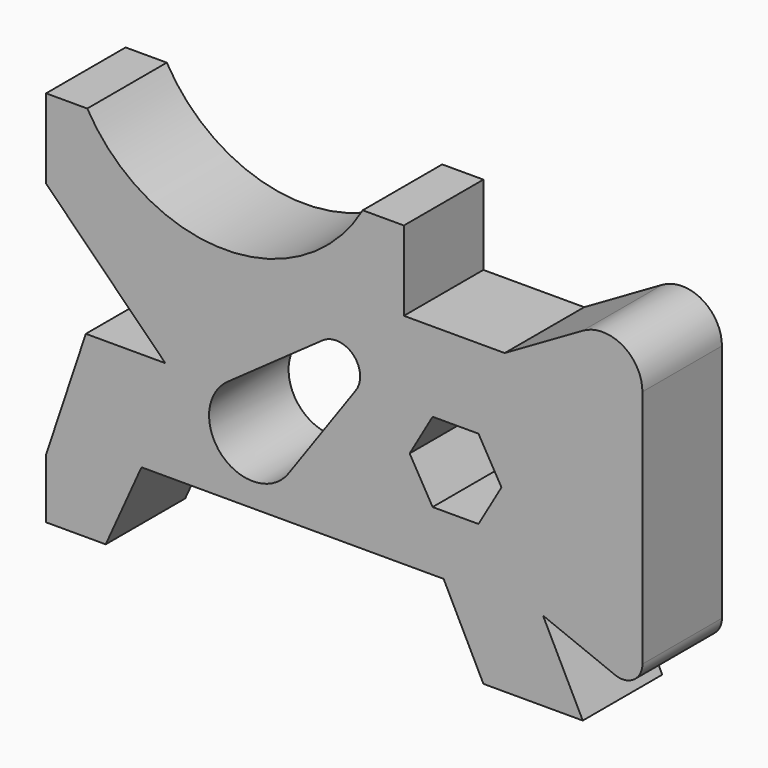
from build123d import *

# Parameters (mm, degrees)
F1_DEPTH = 25


with BuildPart() as f1:
    # F0 (on Front) → F1 (new body)
    with BuildSketch(Plane.XZ):
        with BuildLine():
            Line((0, 15), (0, 0))
            Line((0, 0), (15, 0))
            Line((15, 0), (24, 20))
            Line((24, 20), (100, 20))
            Line((100, 20), (110, 0))
            Line((110, 0), (135, 0))
            Line((135, 0), (125, 20))
            Line((125, 20), (143.143047, 12.742781))
            ThreePointArc((143.143047, 12.742781), (147.803144, 13.244829), (150, 17.385165))
            Line((150, 17.385165), (150, 77.679492))
            ThreePointArc((150, 77.679492), (145, 86.339746), (135, 86.339746))
            Line((135, 86.339746), (115.358984, 75))
            Line((115.358984, 75), (90, 75))
            Line((90, 75), (90, 95))
            Line((90, 95), (79.641016, 95))
            ThreePointArc((79.641016, 95), (45, 75), (10.358984, 95))
            Line((10.358984, 95), (0, 95))
            Line((0, 95), (0, 75))
            Line((0, 75), (30, 45))
            Line((30, 45), (10, 45))
            Line((10, 45), (0, 15))
        make_face()
        with BuildLine():
            ThreePointArc((60.976671, 30.642377), (44.221825, 29.221825), (45.642377, 45.976671))
            Line((45.642377, 45.976671), (69.532205, 62.896366))
            ThreePointArc((69.532205, 62.896366), (77.242641, 62.242641), (77.896366, 54.532205))
            Line((77.896366, 54.532205), (60.976671, 30.642377))
        make_face(mode=Mode.SUBTRACT)
        Polygon((114.547005, 45), (108.773503, 35), (97.226497, 35), (91.452995, 45), (97.226497, 55), (108.773503, 55), align=None, mode=Mode.SUBTRACT)
    extrude(amount=F1_DEPTH)


solid = f1.part
